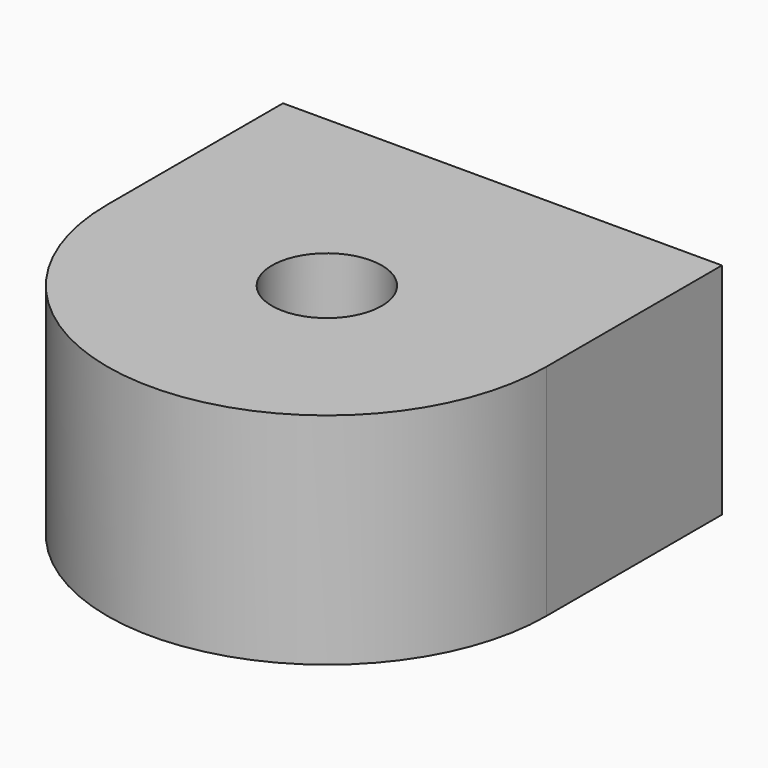
from build123d import *

# Parameters (mm, degrees)
F0_R     = 5
F1_DEPTH = 20
F3_D     = 5
F3_DEPTH = 11
F3_TIP   = 1.5021515476


with BuildPart() as f1:
    # F0 (on Top) → F1 (new body)
    with BuildSketch(Plane.XY):
        with BuildLine():
            Line((40, 0), (0, 0))
            Line((0, 0), (0, -20))
            ThreePointArc((0, -20), (20, -40), (40, -20))
            Line((40, -20), (40, 0))
        make_face()
        with Locations((20, -20)):
            Circle(F0_R, mode=Mode.SUBTRACT)
    extrude(amount=F1_DEPTH)

    # F3
    with Locations(Plane(origin=(0, 0, 0), x_dir=(-1, 0, 0), z_dir=(0, 1, 0))):
        with Locations((-10, 10), (-30, 10)):
            Hole(F3_D / 2, depth=F3_DEPTH)
            with Locations((0, 0, -(F3_DEPTH + F3_TIP / 2))):  # 118° drill point
                Cone(0, F3_D / 2, F3_TIP, mode=Mode.SUBTRACT)


solid = f1.part
